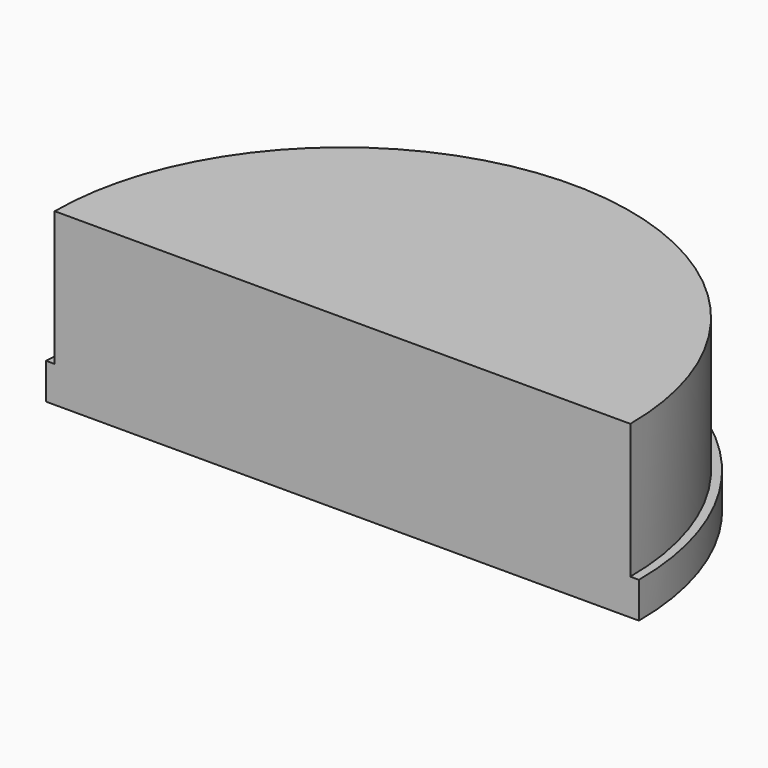
from build123d import *

# Parameters (mm, degrees)
F1_ANGLE = 180


with BuildPart() as f1:
    # F0 (on Front) → F1 (revolve)
    with BuildSketch(Plane.XZ):
        Polygon((-2.740294, -0.861752), (7.437274, -0.861752), (7.437274, 4.992364), (-2.444903, 4.992364), (-2.444903, 0.373521), (-2.740294, 0.373521), align=None)
    revolve(axis=Axis((7.437274, 0, 2.065306), (0, 0, -1)), revolution_arc=F1_ANGLE)


solid = f1.part
